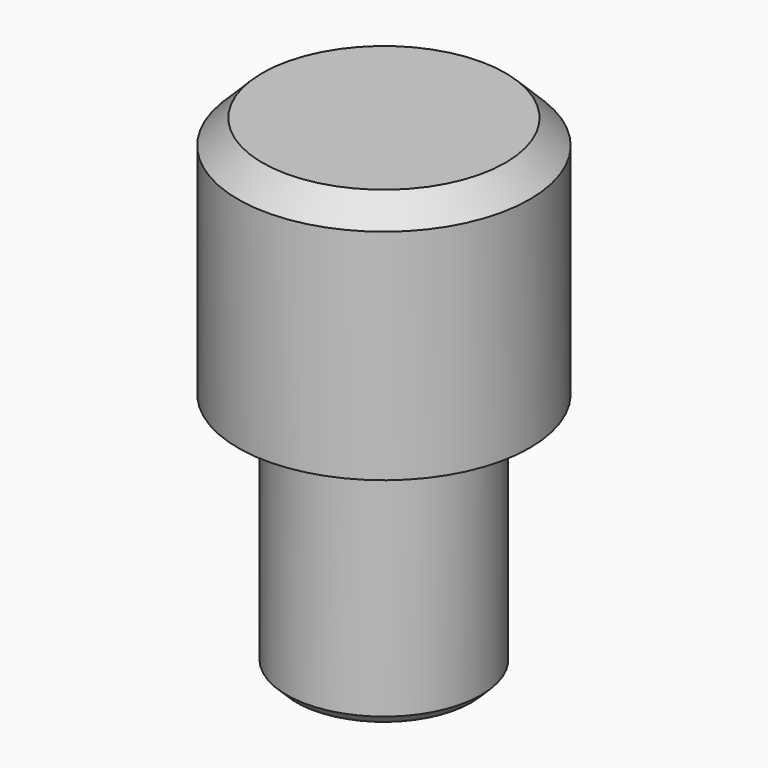
from build123d import *

# Parameters (mm, degrees)
F0_R     = 3
F1_DEPTH = 5
F2_R     = 2
F3_DEPTH = 5
F4_SIZE  = 0.5
F5_SIZE  = 0.2


with BuildPart() as f1:
    # F0 (on Top) → F1 (new body)
    with BuildSketch(Plane.XY):
        Circle(F0_R)
    extrude(amount=F1_DEPTH)

    # F2 (on Top) → F3 (join)
    with BuildSketch(Plane.XY):
        Circle(F2_R)
    extrude(amount=-F3_DEPTH)

    # F4
    f4_edges = [f1.edges().sort_by_distance(p)[0] for p in [
        (-3, 0, 5),
    ]]
    chamfer(f4_edges, length=F4_SIZE)

    # F5
    f5_edges = [f1.edges().sort_by_distance(p)[0] for p in [
        (-2, 0, -5),
    ]]
    chamfer(f5_edges, length=F5_SIZE)


solid = f1.part
